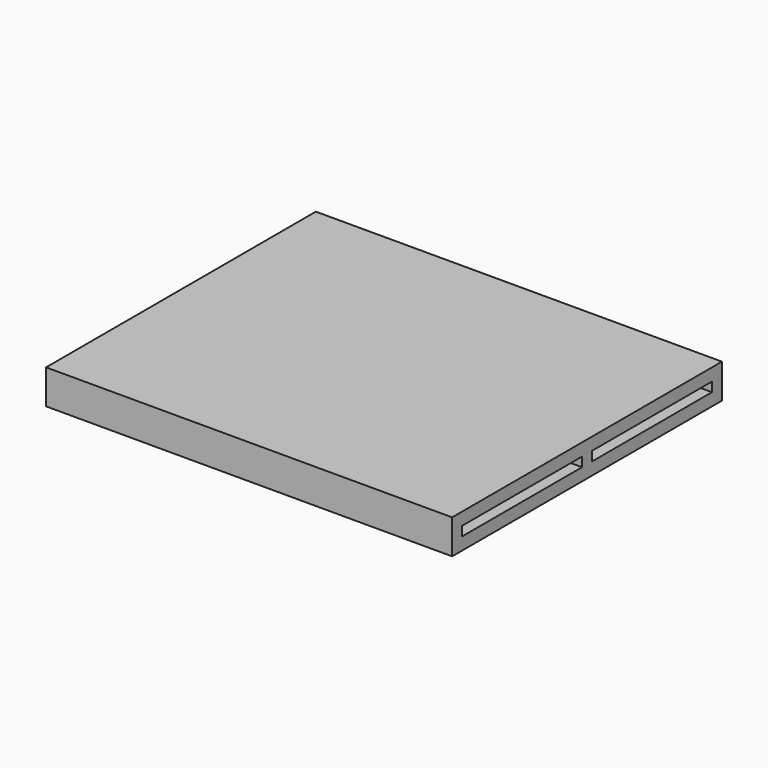
from build123d import *

# Parameters (mm, degrees)
F2_W     = 21.7
F2_H     = 24
F3_DEPTH = 2
F4_DEPTH = 1.5
F5_W     = 21.7
F5_H     = 24
F6_DEPTH = 2


with BuildPart() as f3:
    # F2 (on Top) → F3 (new body)
    with BuildSketch(Plane.XY):
        Polygon((32.5, 26.99), (-32.5, 26.99), (-32.5, 24.9966666667), (-10.8, 24.9966666667), (-10.8, 0.9966666667), (-32.5, 0.9966666667), (-32.5, -0.9966666667), (-10.8, -0.9966666667), (-10.8, -24.9966666667), (-32.5, -24.9966666667), (-32.5, -26.99), (32.5, -26.99), (32.5, -24.9966666667), (10.8, -24.9966666667), (10.8, -0.9966666667), (32.5, -0.9966666667), (32.5, 0.9966666667), (10.8, 0.9966666667), (10.8, 24.9966666667), (32.5, 24.9966666667), align=None)
        with Locations((21.65, 12.9966666667)):
            Rectangle(F2_W, F2_H)
        with Locations((-21.65, -12.9966666667)):
            Rectangle(F2_W, F2_H)
        with Locations((-21.65, 12.9966666667)):
            Rectangle(F2_W, F2_H)
        with Locations((21.65, -12.9966666667)):
            Rectangle(F2_W, F2_H)
    extrude(amount=-F3_DEPTH)

    # F2 (on Top) → F4 (join)
    with BuildSketch(Plane.XY):
        Polygon((32.5, 26.99), (-32.5, 26.99), (-32.5, 24.9966666667), (-10.8, 24.9966666667), (-10.8, 0.9966666667), (-32.5, 0.9966666667), (-32.5, -0.9966666667), (-10.8, -0.9966666667), (-10.8, -24.9966666667), (-32.5, -24.9966666667), (-32.5, -26.99), (32.5, -26.99), (32.5, -24.9966666667), (10.8, -24.9966666667), (10.8, -0.9966666667), (32.5, -0.9966666667), (32.5, 0.9966666667), (10.8, 0.9966666667), (10.8, 24.9966666667), (32.5, 24.9966666667), align=None)
    extrude(amount=F4_DEPTH)

    # F5 (on face) → F6 (join)
    with BuildSketch(Plane.XY.offset(1.5)):
        Polygon((10.8, -24.9966666667), (10.8, -0.9966666667), (32.5, -0.9966666667), (32.5, 0.9966666667), (10.8, 0.9966666667), (10.8, 24.9966666667), (32.5, 24.9966666667), (32.5, 26.99), (-32.5, 26.99), (-32.5, 24.9966666667), (-10.8, 24.9966666667), (-10.8, 0.9966666667), (-32.5, 0.9966666667), (-32.5, -0.9966666667), (-10.8, -0.9966666667), (-10.8, -24.9966666667), (-32.5, -24.9966666667), (-32.5, -26.99), (32.5, -26.99), (32.5, -24.9966666667), align=None)
        with Locations((-21.65, 12.9966666667)):
            Rectangle(F5_W, F5_H)
        with Locations((-21.65, -12.9966666667)):
            Rectangle(F5_W, F5_H)
        with Locations((21.65, 12.9966666667)):
            Rectangle(F5_W, F5_H)
        with Locations((21.65, -12.9966666667)):
            Rectangle(F5_W, F5_H)
    extrude(amount=F6_DEPTH)


solid = f3.part
